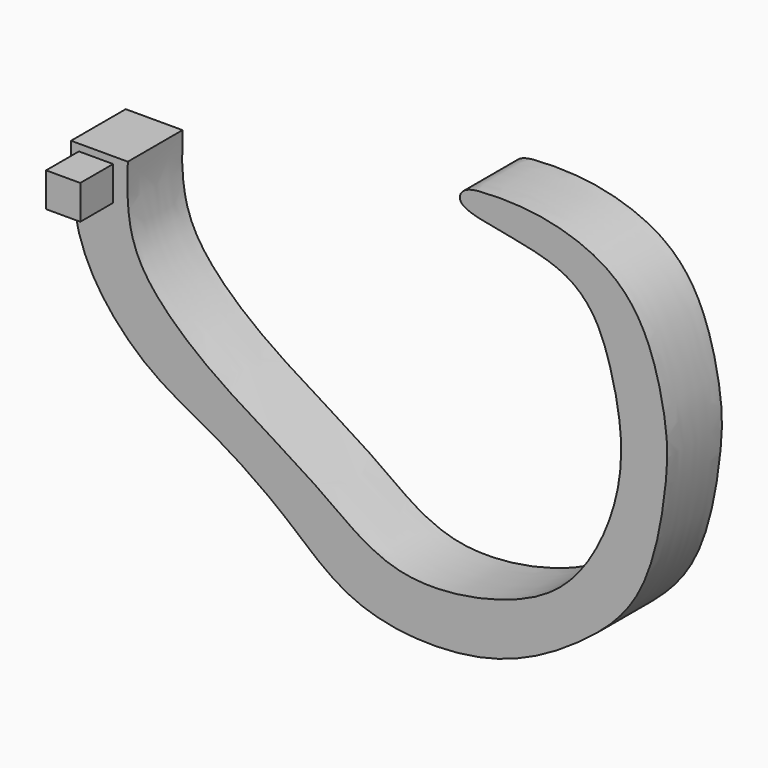
from build123d import *

# Parameters (mm, degrees)
F1_DEPTH = 10
F2_W     = 5
F2_H     = 5
F3_DEPTH = 6


with BuildPart() as f1:
    # F0 (on Front) → F1 (new body)
    with BuildSketch(Plane.XZ):
        with BuildLine():
            Line((-35.5777555258, 27.1078141265), (-43.8756307894, 27.1078141265))
            add(Edge.make_bspline(
                [(-35.5777555258, 27.1078141265), (-35.6353155353, 25.4617101246), (-35.7501015248, 21.8873666155), (-34.6408716405, 14.3462654854), (-26.7253310249, 6.1709475255), (-17.1043735502, -0.0702874327), (-6.6268193939, -6.282151859), (3.7460945051, -14.8340466928), (21.867801615, -11.7167464957), (31.6269852574, -4.6658728819), (37.721195569, 9.8728824466), (35.5534109153, 23.2517038408), (30.6265268195, 35.7601546812), (12.3475517381, 35.9566028016), (13.1606868009, 39.8546840928), (17.869401804, 40.2179530801), (25.4066668648, 40.0286652757), (34.9730383678, 36.8476460655), (40.8941121677, 29.7032808917), (43.5069194659, 18.1008291278), (43.2673625551, 10.9340710068), (40.7206453071, -4.6006973465), (30.6274667076, -13.7717789758), (16.8319182993, -21.442891817), (-2.4299554997, -20.5592849215), (-11.6923064765, -11.4142254823), (-22.2504483972, -4.0707815119), (-32.6364638894, 0.7498862662), (-40.7680247245, 9.5642287048), (-43.8197271295, 18.2403951507), (-43.8527674087, 24.2241231082), (-43.8756307894, 27.1078141265)],
                knots=[0, 0, 0, 0, 0.0237534537, 0.052019596, 0.0868961157, 0.1228084785, 0.1593947131, 0.1970819497, 0.2403168708, 0.2765370647, 0.3168362409, 0.3554082012, 0.3924137611, 0.4334323764, 0.4471100412, 0.4684204549, 0.4978905608, 0.5306764375, 0.5623353993, 0.5976118289, 0.6264558265, 0.666815039, 0.7051623281, 0.7466995685, 0.7912151554, 0.8285953562, 0.8659755546, 0.9016742649, 0.9374225162, 0.9689539184, 1, 1, 1, 1], degree=3))
        make_face()
    extrude(amount=F1_DEPTH)

    # F2 (on face) → F3 (join)
    with BuildSketch(Plane.XZ.offset(10)):
        with Locations((-40.2262173593, 23.6078141265)):
            Rectangle(F2_W, F2_H)
    extrude(amount=F3_DEPTH)


solid = f1.part
